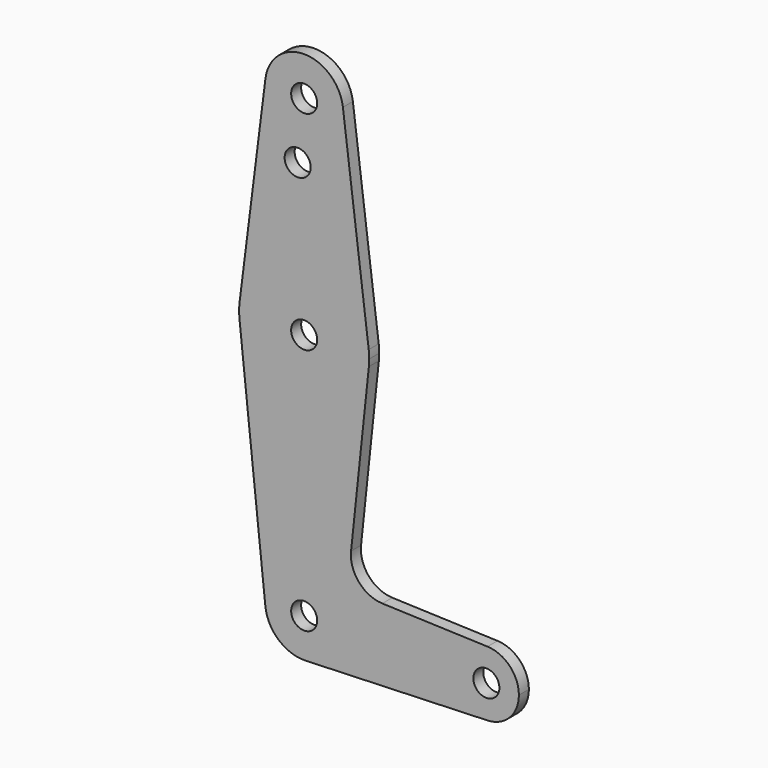
from build123d import *

# Parameters (mm, degrees)
F0_R     = 3.175
F1_DEPTH = 3.048


with BuildPart() as f1:
    # F0 (on Front) → F1 (new body)
    with BuildSketch(Plane.XZ):
        with BuildLine():
            ThreePointArc((-9.450293, 112.315625), (-0.596483, 101.618695), (9.525, 111.125))
            ThreePointArc((9.525, 111.125), (9.506305, 111.721483), (9.450293, 112.315625))
            ThreePointArc((9.450293, 112.315625), (0, 120.65), (-9.450293, 112.315625))
        make_face()
        with Locations((0, 111.125)):
            Circle(F0_R, mode=Mode.SUBTRACT)
        with BuildLine():
            ThreePointArc((9.450293, 112.315625), (9.506305, 111.721483), (9.525, 111.125))
            ThreePointArc((9.525, 111.125), (-0.596483, 101.618695), (-9.450293, 112.315625))
            Line((-9.450293, 112.315625), (-15.750488, 62.309375))
            ThreePointArc((-15.750488, 62.309375), (0, 76.2), (15.750488, 62.309375))
            Line((15.750488, 62.309375), (9.450293, 112.315625))
        make_face()
        with Locations((-1.5875, 96.8502)):
            Circle(F0_R, mode=Mode.SUBTRACT)
        with BuildLine():
            ThreePointArc((15.875, 60.325), (15.843841, 61.319139), (15.750488, 62.309375))
            ThreePointArc((15.750488, 62.309375), (0, 76.2), (-15.750488, 62.309375))
            ThreePointArc((-15.750488, 62.309375), (-15.874217, 60.48271), (-15.786805, 58.653947))
            ThreePointArc((-15.786805, 58.653947), (0, 44.45), (15.786805, 58.653947))
            ThreePointArc((15.786805, 58.653947), (15.852936, 59.488311), (15.875, 60.325))
        make_face()
        with Locations((0, 60.325)):
            Circle(F0_R, mode=Mode.SUBTRACT)
        with BuildLine():
            ThreePointArc((15.786805, 58.653947), (0, 44.45), (-15.786805, 58.653947))
            Line((-15.786805, 58.653947), (-12.401804, 26.675091))
            Line((-12.401804, 26.675091), (-9.472083, -1.002632))
            ThreePointArc((-9.472083, -1.002632), (-0.502014, 9.511762), (9.525, 0))
            ThreePointArc((9.525, 0), (6.854408, -6.613827), (0.340179, -9.518923))
            Line((0.340179, -9.518923), (44.733482, -7.932436))
            ThreePointArc((44.733482, -7.932436), (36.5125, 0), (44.733482, 7.932436))
            Line((44.733482, 7.932436), (19.066644, 8.849694))
            ThreePointArc((19.066644, 8.849694), (13.346437, 11.583686), (11.444548, 17.631685))
            Line((11.444548, 17.631685), (15.786805, 58.653947))
        make_face()
        with BuildLine():
            ThreePointArc((9.525, 0), (-0.502014, 9.511762), (-9.472083, -1.002632))
            ThreePointArc((-9.472083, -1.002632), (-6.243375, -7.193462), (0.340179, -9.518923))
            ThreePointArc((0.340179, -9.518923), (6.854408, -6.613827), (9.525, 0))
        make_face()
        Circle(F0_R, mode=Mode.SUBTRACT)
        with BuildLine():
            ThreePointArc((52.3875, 0), (50.162007, 5.511523), (44.733482, 7.932436))
            ThreePointArc((44.733482, 7.932436), (36.5125, 0), (44.733482, -7.932436))
            ThreePointArc((44.733482, -7.932436), (50.162007, -5.511523), (52.3875, 0))
        make_face()
        with Locations((44.45, 0)):
            Circle(F0_R, mode=Mode.SUBTRACT)
    extrude(amount=F1_DEPTH)


solid = f1.part
